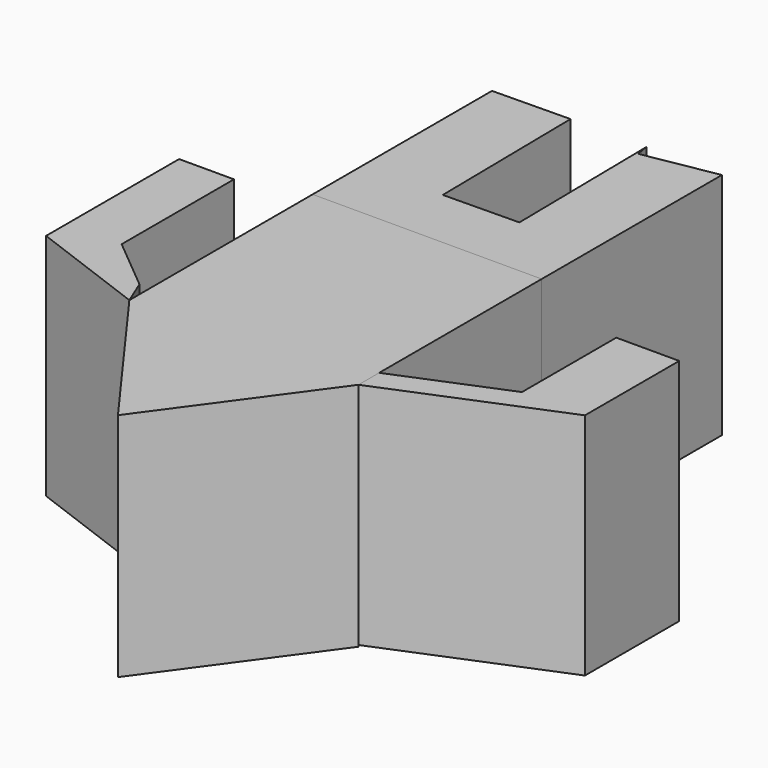
from build123d import *

# Parameters (mm, degrees)
F0_W     = 38.1
F0_H     = 38.1
F2_DEPTH = 38.1
F4_DEPTH = 38.354
F6_DEPTH = 38.1


with BuildPart() as f2:
    # F0 (on Top) → F2 (new body)
    with BuildSketch(Plane.XY):
        Rectangle(F0_W, F0_H)
    extrude(amount=F2_DEPTH)

    # F3 (on face) → F4 (join)
    with BuildSketch(Plane.XY.offset(38.1)):
        Polygon((19.05, -19.05), (-19.05, -19.05), (0, -45.240555), align=None)
    extrude(amount=-F4_DEPTH)


with BuildPart() as f6:
    # F5 (on face) → F6 (new body)
    with BuildSketch(Plane.XY.offset(38.1)):
        Polygon((-19.05, 19.05), (19.05, 19.05), (19.05, 56.517132), (6.846494, 54.369211), (6.468442, 56.517132), (6.846494, 29.668139), (-5.751134, 29.490756), (-6.131683, 56.517132), (-19.05, 56.335233), align=None)
        Polygon((19.05, -14.739201), (19.05, -19.05), (47.388475, -7.383473), (47.388475, 12.216292), (36.917366, 12.216292), (36.917366, -7.383473), align=None)
        Polygon((-38.796797, -11.679313), (-19.05, -19.05), (-20.824692, -14.739201), (-29.668136, -7.383473), (-29.668136, 15.975151), (-38.796797, 15.975151), align=None)
    extrude(amount=-F6_DEPTH)


solid = Compound([f2.part, f6.part])
